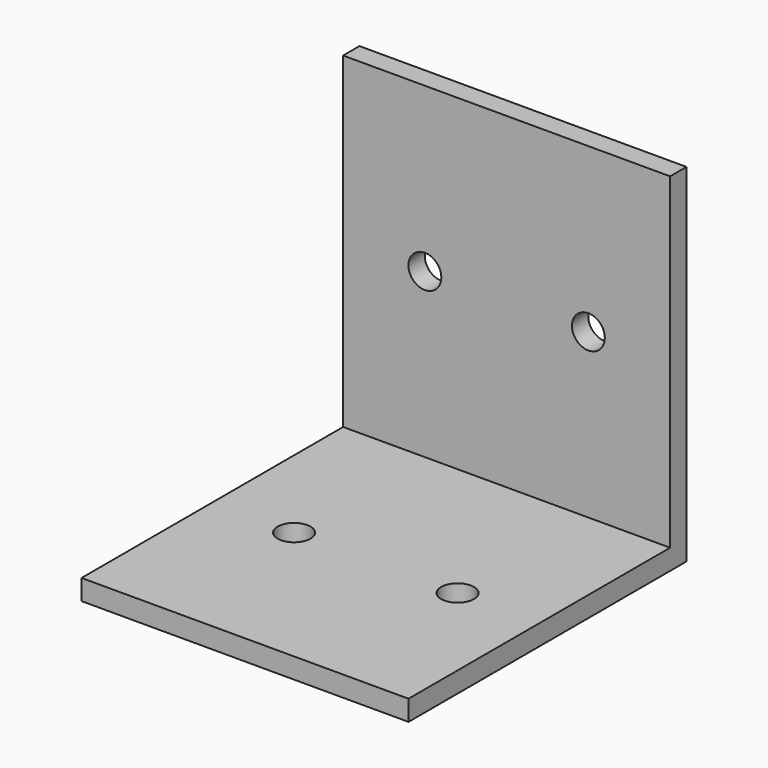
from build123d import *

# Parameters (mm, degrees)
F0_W     = 50.8
F0_H     = 53.975
F0_R     = 2.5527
F1_DEPTH = 3.175
F2_W     = 50.8
F2_H     = 3.175
F3_DEPTH = 50.8
F4_R     = 2.5527
F5_DEPTH = 25.4


with BuildPart() as f1:
    # F0 (on Top) → F1 (new body)
    with BuildSketch(Plane.XY):
        with Locations((25.4, -26.9875)):
            Rectangle(F0_W, F0_H)
        with Locations((12.7, -28.575)):
            Circle(F0_R, mode=Mode.SUBTRACT)
        with Locations((38.1, -28.575)):
            Circle(F0_R, mode=Mode.SUBTRACT)
    extrude(amount=F1_DEPTH)

    # F2 (on face) → F3 (join)
    with BuildSketch(Plane.XY.offset(3.175)):
        with Locations((25.4, -1.5875)):
            Rectangle(F2_W, F2_H)
    extrude(amount=F3_DEPTH)

    # F4 (on face) → F5 (cut)
    with BuildSketch(Plane.XZ.offset(3.175)):
        with Locations((12.7, 28.575)):
            Circle(F4_R)
        with Locations((38.1, 28.575)):
            Circle(F4_R)
    extrude(amount=-F5_DEPTH, mode=Mode.SUBTRACT)


solid = f1.part
